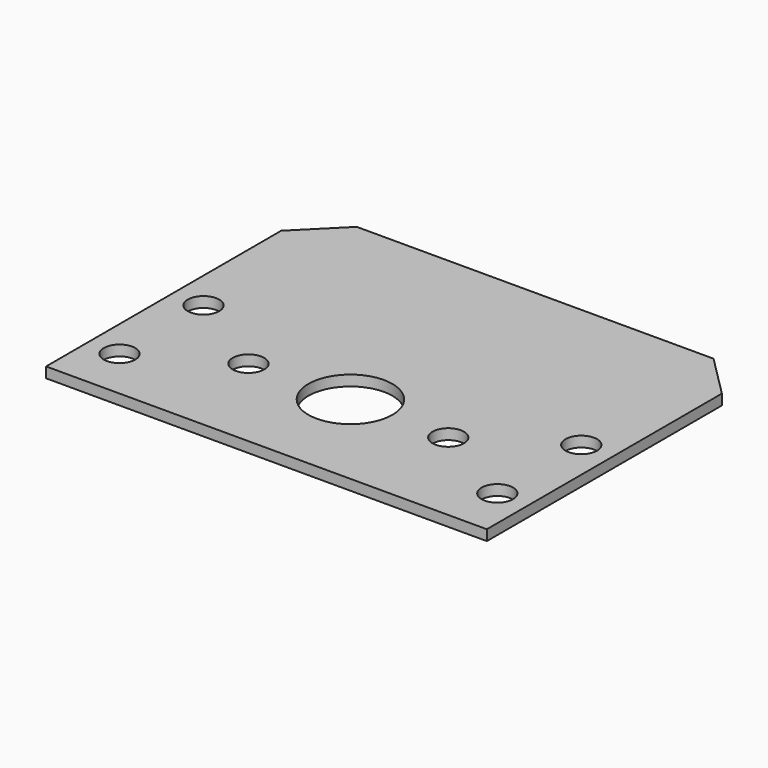
from build123d import *

# Parameters (mm, degrees)
CYLINDER1734_R              = 1.5
CYLINDER1734_DEPTH          = 20
CYLINDER1733_R              = 1.5
CYLINDER1733_DEPTH          = 20
COMPOUND856_ROLL_ANGLE      = 90
COMPOUND856_PLACEMENT_ANGLE = 90
CYLINDER1726_R              = 1.5
CYLINDER1726_DEPTH          = 60
CYLINDER1727_R              = 1.5
CYLINDER1727_DEPTH          = 60
CYLINDER1724_R              = 1.5
CYLINDER1724_DEPTH          = 60
CYLINDER1725_R              = 1.5
CYLINDER1725_DEPTH          = 60
CYLINDER1728_R              = 4
CYLINDER1728_DEPTH          = 48
BOX670_W                    = 42
BOX670_H                    = 32
BOX670_DEPTH                = 1
CHAMFER059_SIZE             = 4


with BuildPart() as obj1:
    # Cylinder1734 → Cylinder1734 (new body)
    with BuildSketch(Plane(origin=(15.75, 114, 58.525), x_dir=(-1, 0, 0), z_dir=(0, 1, 0))):
        Circle(CYLINDER1734_R)
    extrude(amount=CYLINDER1734_DEPTH)


with BuildPart() as compound857:
    # Cylinder1733 → Cylinder1733 (new body)
    with BuildSketch(Plane(origin=(15.75, 114, 39.48), x_dir=(-1, 0, 0), z_dir=(0, 1, 0))):
        Circle(CYLINDER1733_R)
    extrude(amount=CYLINDER1733_DEPTH)

    # Compound856: union obj1
    add(obj1.part)


with BuildPart() as compound857_1:
    # Compound856 roll: moved
    add(compound857.part.rotate(Axis((0, 0, 0), (1, 0, 0)), COMPOUND856_ROLL_ANGLE))


with BuildPart() as compound857_2:
    # Compound856 placement: moved
    add(compound857_1.part.moved(Location((-49, 0, -96))).rotate(Axis((-49, 0, -96), (0, 0, 1)), COMPOUND856_PLACEMENT_ANGLE))


with BuildPart() as compound857_3:
    # Compound857 placement: moved
    add(compound857_2.part.moved(Location((0, 74, -80))))


with BuildPart() as obj2:
    # Cylinder1726 → Cylinder1726 (new body)
    with BuildSketch(Plane(origin=(18, 85, -57), x_dir=(1, 0, 0), z_dir=(0, 0, 1))):
        Circle(CYLINDER1726_R)
    extrude(amount=CYLINDER1726_DEPTH)


with BuildPart() as obj3:
    # Cylinder1727 → Cylinder1727 (new body)
    with BuildSketch(Plane(origin=(-18, 85, -57), x_dir=(1, 0, 0), z_dir=(0, 0, 1))):
        Circle(CYLINDER1727_R)
    extrude(amount=CYLINDER1727_DEPTH)


with BuildPart() as obj4:
    # Cylinder1724 → Cylinder1724 (new body)
    with BuildSketch(Plane(origin=(-18, 95, -57), x_dir=(1, 0, 0), z_dir=(0, 0, 1))):
        Circle(CYLINDER1724_R)
    extrude(amount=CYLINDER1724_DEPTH)


with BuildPart() as compound854:
    # Cylinder1725 → Cylinder1725 (new body)
    with BuildSketch(Plane(origin=(18, 95, -57), x_dir=(1, 0, 0), z_dir=(0, 0, 1))):
        Circle(CYLINDER1725_R)
    extrude(amount=CYLINDER1725_DEPTH)

    # Compound854: union obj2, obj3, obj4
    add(obj2.part)
    add(obj3.part)
    add(obj4.part)


with BuildPart() as obj5:
    # Cylinder1728 → Cylinder1728 (new body)
    with BuildSketch(Plane(origin=(0, 90, -55), x_dir=(1, 0, 0), z_dir=(0, 0, 1))):
        Circle(CYLINDER1728_R)
    extrude(amount=CYLINDER1728_DEPTH)


with BuildPart() as chamfer059:
    # Box670 → Box670 (new body)
    with BuildSketch(Plane(origin=(-21, 80, -49), x_dir=(1, 0, 0), z_dir=(0, 0, 1))):
        with Locations((21, 16)):
            Rectangle(BOX670_W, BOX670_H)
    extrude(amount=BOX670_DEPTH)

    # Cut361: cut obj5
    add(obj5.part, mode=Mode.SUBTRACT)

    # Cut359: cut Compound854
    add(compound854.part, mode=Mode.SUBTRACT)

    # Cut360: cut Compound857
    add(compound857_3.part, mode=Mode.SUBTRACT)

    # Chamfer059
    chamfer059_edges = [chamfer059.edges().sort_by_distance(p)[0] for p in [
        (-21, 112, -48.5),
        (21, 112, -48.5),
    ]]
    chamfer(chamfer059_edges, length=CHAMFER059_SIZE)


solid = chamfer059.part
